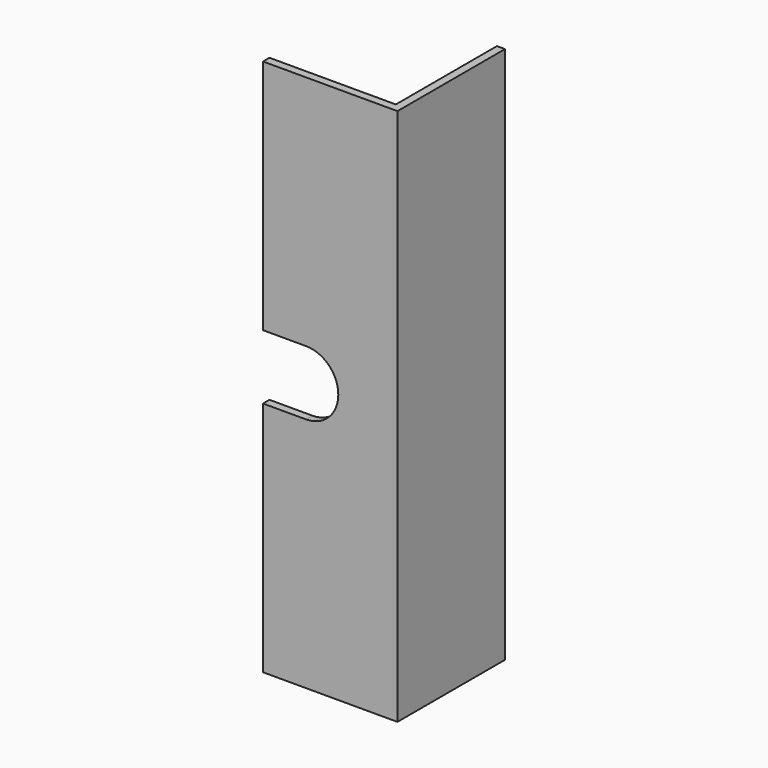
from build123d import *

# Parameters (mm, degrees)
F0_W     = 1.5
F0_H     = 1.5
F0_H_2   = 23.5
F0_W_2   = 23.5
F1_DEPTH = 100
F3_DEPTH = 1.5


with BuildPart() as f1:
    # F0 (on Top) → F1 (new body)
    with BuildSketch(Plane.XY):
        with Locations((11.75, 0)):
            Rectangle(F0_W, F0_H)
        with Locations((11.75, 12.5)):
            Rectangle(F0_W, F0_H_2)
        with Locations((-0.75, 0)):
            Rectangle(F0_W_2, F0_H)
    extrude(amount=-F1_DEPTH)

    # F2 (on face) → F3 (cut)
    with BuildSketch(Plane.XZ.offset(0.75)):
        with BuildLine():
            Line((-12.5, -56), (-4.5, -56))
            ThreePointArc((-4.5, -56), (1.5, -50), (-4.5, -44))
            Line((-4.5, -44), (-12.5, -44))
            Line((-12.5, -44), (-12.5, -56))
        make_face()
    extrude(amount=-F3_DEPTH, mode=Mode.SUBTRACT)


solid = f1.part
